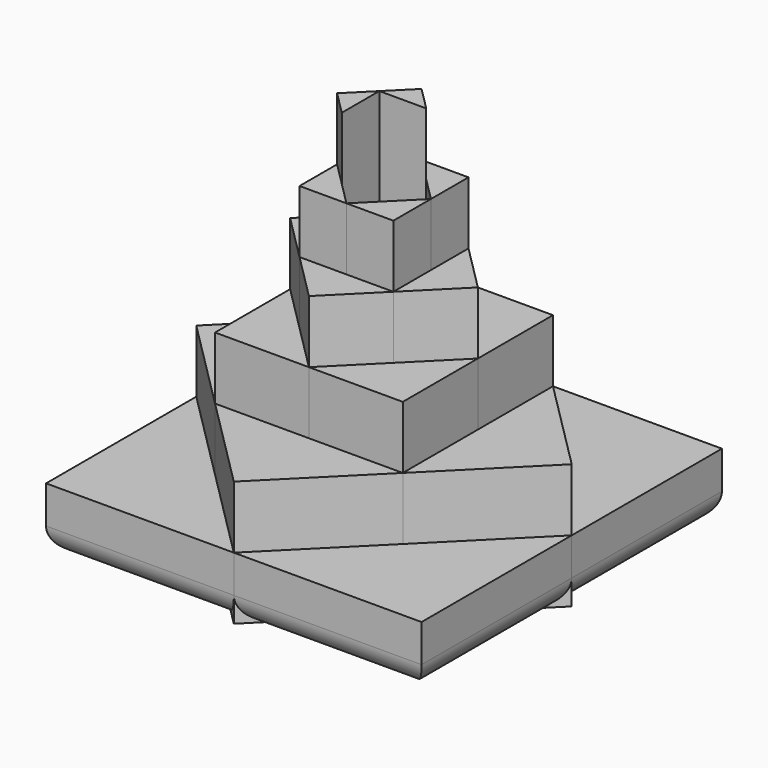
from build123d import *

# Parameters (mm, degrees)
F1_DEPTH = 12.7
F2_DEPTH = 25.4
F3_DEPTH = 38.1
F4_DEPTH = 50.8
F5_DEPTH = 63.5
F6_DEPTH = 76.2
F7_R     = 5.08
F7_2_R   = 5.08
F7_3_R   = 5.08
F7_4_R   = 5.08


with BuildPart() as f1:
    # F0 (on Top) → F1 (new body)
    with BuildSketch(Plane.XY):
        Polygon((0, 38.1), (-38.1, 38.1), (-38.1, 0), (-19.05, 19.05), align=None)
    extrude(amount=F1_DEPTH)

    # F7#4
    f7_4_edges = [f1.edges().sort_by_distance(p)[0] for p in [
        (-19.05, 38.1, 0),
        (-38.1, 19.05, 0),
    ]]
    fillet(f7_4_edges, radius=F7_4_R)


with BuildPart() as f1b:
    # F0 (on Top) → F1, piece 2 (new body)
    with BuildSketch(Plane.XY):
        Polygon((38.1, 38.1), (0, 38.1), (19.05, 19.05), (38.1, 0), align=None)
    extrude(amount=F1_DEPTH)

    # F7#3
    f7_3_edges = [f1b.edges().sort_by_distance(p)[0] for p in [
        (38.1, 19.05, 0),
        (19.05, 38.1, 0),
    ]]
    fillet(f7_3_edges, radius=F7_3_R)


with BuildPart() as f1c:
    # F0 (on Top) → F1, piece 3 (new body)
    with BuildSketch(Plane.XY):
        Polygon((19.05, -19.05), (0, -38.1), (38.1, -38.1), (38.1, 0), align=None)
    extrude(amount=F1_DEPTH)

    # F7#2
    f7_2_edges = [f1c.edges().sort_by_distance(p)[0] for p in [
        (19.05, -38.1, 0),
        (38.1, -19.05, 0),
    ]]
    fillet(f7_2_edges, radius=F7_2_R)


with BuildPart() as f1d:
    # F0 (on Top) → F1, piece 4 (new body)
    with BuildSketch(Plane.XY):
        Polygon((-19.05, -19.05), (-38.1, 0), (-38.1, -38.1), (0, -38.1), align=None)
    extrude(amount=F1_DEPTH)

    # F7
    f7_edges = [f1d.edges().sort_by_distance(p)[0] for p in [
        (-19.05, -38.1, 0),
        (-38.1, -19.05, 0),
    ]]
    fillet(f7_edges, radius=F7_R)


with BuildPart() as f2:
    # F0 (on Top) → F2 (new body)
    with BuildSketch(Plane.XY):
        Polygon((-19.05, 19.05), (-38.1, 0), (-19.05, -19.05), (-19.05, 0), align=None)
    extrude(amount=F2_DEPTH)


with BuildPart() as f2b:
    # F0 (on Top) → F2, piece 2 (new body)
    with BuildSketch(Plane.XY):
        Polygon((19.05, 19.05), (0, 38.1), (-19.05, 19.05), (0, 19.05), align=None)
    extrude(amount=F2_DEPTH)


with BuildPart() as f2c:
    # F0 (on Top) → F2, piece 3 (new body)
    with BuildSketch(Plane.XY):
        Polygon((38.1, 0), (19.05, 19.05), (19.05, 0), (19.05, -19.05), align=None)
    extrude(amount=F2_DEPTH)


with BuildPart() as f2d:
    # F0 (on Top) → F2, piece 4 (new body)
    with BuildSketch(Plane.XY):
        Polygon((0, -19.05), (-19.05, -19.05), (0, -38.1), (19.05, -19.05), align=None)
    extrude(amount=F2_DEPTH)


with BuildPart() as f3:
    # F0 (on Top) → F3 (new body)
    with BuildSketch(Plane.XY):
        Polygon((0, 19.05), (-19.05, 19.05), (-19.05, 0), (-9.525, 9.525), align=None)
    extrude(amount=F3_DEPTH)


with BuildPart() as f3b:
    # F0 (on Top) → F3, piece 2 (new body)
    with BuildSketch(Plane.XY):
        Polygon((-19.05, 0), (-19.05, -19.05), (0, -19.05), (-9.525, -9.525), align=None)
    extrude(amount=F3_DEPTH)


with BuildPart() as f3c:
    # F0 (on Top) → F3, piece 3 (new body)
    with BuildSketch(Plane.XY):
        Polygon((9.525, -9.525), (0, -19.05), (19.05, -19.05), (19.05, 0), align=None)
    extrude(amount=F3_DEPTH)


with BuildPart() as f3d:
    # F0 (on Top) → F3, piece 4 (new body)
    with BuildSketch(Plane.XY):
        Polygon((19.05, 0), (19.05, 19.05), (0, 19.05), (9.525, 9.525), align=None)
    extrude(amount=F3_DEPTH)


with BuildPart() as f4:
    # F0 (on Top) → F4 (new body)
    with BuildSketch(Plane.XY):
        Polygon((-9.525, 9.525), (-19.05, 0), (-9.525, -9.525), (-9.525, 0), align=None)
    extrude(amount=F4_DEPTH)


with BuildPart() as f4b:
    # F0 (on Top) → F4, piece 2 (new body)
    with BuildSketch(Plane.XY):
        Polygon((-9.525, -9.525), (0, -19.05), (9.525, -9.525), (0, -9.525), align=None)
    extrude(amount=F4_DEPTH)


with BuildPart() as f4c:
    # F0 (on Top) → F4, piece 3 (new body)
    with BuildSketch(Plane.XY):
        Polygon((9.525, -9.525), (19.05, 0), (9.525, 9.525), (9.525, 0), align=None)
    extrude(amount=F4_DEPTH)


with BuildPart() as f4d:
    # F0 (on Top) → F4, piece 4 (new body)
    with BuildSketch(Plane.XY):
        Polygon((9.525, 9.525), (0, 19.05), (-9.525, 9.525), (0, 9.525), align=None)
    extrude(amount=F4_DEPTH)


with BuildPart() as f5:
    # F0 (on Top) → F5 (new body)
    with BuildSketch(Plane.XY):
        Polygon((0, 9.525), (-9.525, 9.525), (-9.525, 0), (-4.7625, 4.7625), align=None)
    extrude(amount=F5_DEPTH)


with BuildPart() as f5b:
    # F0 (on Top) → F5, piece 2 (new body)
    with BuildSketch(Plane.XY):
        Polygon((0, -9.525), (9.525, -9.525), (9.525, 0), (4.7625, -4.7625), align=None)
    extrude(amount=F5_DEPTH)


with BuildPart() as f5c:
    # F0 (on Top) → F5, piece 3 (new body)
    with BuildSketch(Plane.XY):
        Polygon((9.525, 0), (9.525, 9.525), (0, 9.525), (4.7625, 4.7625), align=None)
    extrude(amount=F5_DEPTH)


with BuildPart() as f5d:
    # F0 (on Top) → F5, piece 4 (new body)
    with BuildSketch(Plane.XY):
        Polygon((-9.525, 0), (-9.525, -9.525), (0, -9.525), (-4.7625, -4.7625), align=None)
    extrude(amount=F5_DEPTH)


with BuildPart() as f6:
    # F0 (on Top) → F6 (new body)
    with BuildSketch(Plane.XY):
        Polygon((4.7625, 4.7625), (0, 9.525), (-4.7625, 4.7625), align=None)
    extrude(amount=F6_DEPTH)


with BuildPart() as f6b:
    # F0 (on Top) → F6, piece 2 (new body)
    with BuildSketch(Plane.XY):
        Polygon((-4.7625, 4.7625), (-9.525, 0), (-4.7625, -4.7625), align=None)
    extrude(amount=F6_DEPTH)


solid = Compound([f1.part, f1b.part, f1c.part, f1d.part, f2.part, f2b.part, f2c.part, f2d.part, f3.part, f3b.part, f3c.part, f3d.part, f4.part, f4b.part, f4c.part, f4d.part, f5.part, f5b.part, f5c.part, f5d.part, f6.part, f6b.part])
